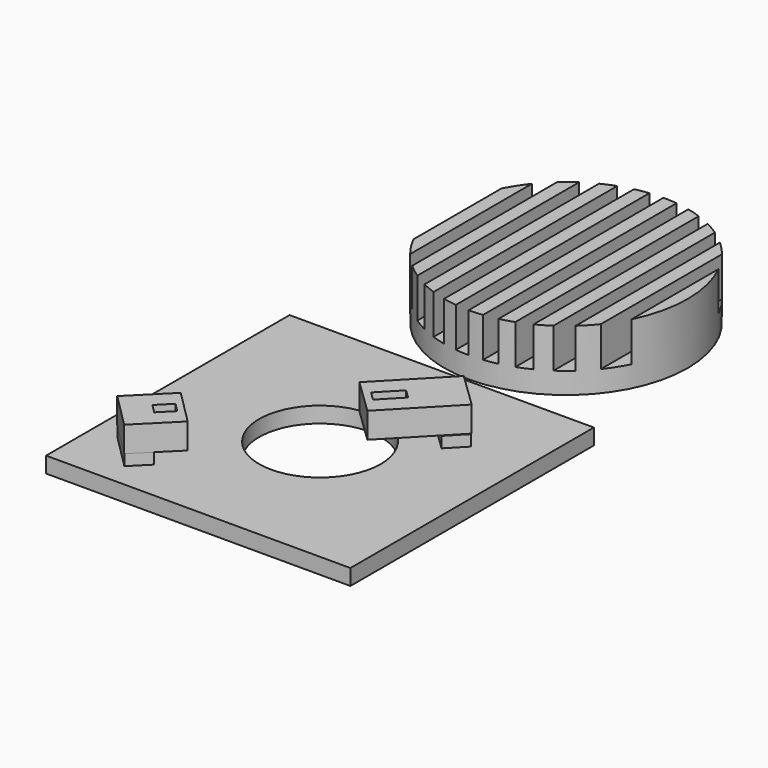
from build123d import *

# Parameters (mm, degrees)
SKETCH002_R                               = 0.7
EXTRUDE001_DEPTH                          = 4
SKETCH001_W                               = 2.23349
SKETCH001_H                               = 39.923653
SKETCH001_W_2                             = 2.233494
SKETCH001_H_2                             = 40.016715
SKETCH001_W_3                             = 2.204327
SKETCH001_H_3                             = 40.844541
SKETCH001_W_4                             = 2.233492
SKETCH001_H_4                             = 40.109777
SKETCH001_W_5                             = 2.233491
EXTRUDE_DEPTH                             = 6.5
CYLINDER001_R                             = 20
CYLINDER001_DEPTH                         = 10
CUT001_PLACEMENT_ANGLE                    = 180
SKETCH005_AS_DRAWN_W                      = 2.018315
SKETCH005_AS_DRAWN_H                      = 4.540272
EXTRUDE002_DEPTH                          = 4.5
EXTRUDE002_ONTO_SKETCH005_PLACEMENT_ANGLE = 136
BOX004_W                                  = 8
BOX004_H                                  = 13.5
BOX004_DEPTH                              = 4.2
BOX004_PLACEMENT_ANGLE                    = 136
BOX002_W                                  = 8
BOX002_H                                  = 3.8
BOX002_DEPTH                              = 1.8
BOX002_PLACEMENT_ANGLE                    = 136
SKETCH006_AS_DRAWN_W                      = 2.0548
SKETCH006_AS_DRAWN_H                      = 2.98173
EXTRUDE003_DEPTH                          = 4.5
EXTRUDE003_ONTO_SKETCH006_PLACEMENT_ANGLE = 135
BOX003_W                                  = 8
BOX003_H                                  = 8.2
BOX003_DEPTH                              = 4.2
BOX003_PLACEMENT_ANGLE                    = 135
BOX001_W                                  = 8
BOX001_H                                  = 3.8
BOX001_DEPTH                              = 1.8
BOX001_PLACEMENT_ANGLE                    = 135
CYLINDER_R                                = 10
CYLINDER_DEPTH                            = 2.6
BOX_W                                     = 50
BOX_H                                     = 50
BOX_DEPTH                                 = 2.6


with BuildPart() as extrude001:
    # Sketch002 → Extrude001 (new body)
    with BuildSketch(Plane.XY):
        with Locations((25.84182, 74.524612)):
            Circle(SKETCH002_R)
    extrude(amount=EXTRUDE001_DEPTH)


with BuildPart() as extrude_body:
    # Sketch001 (on Cylinder) → Extrude (new body)
    with BuildSketch(Plane(origin=(25.881318, -24.43368, 1.577772), x_dir=(1, 0, 0), z_dir=(0, 0, 1))):
        with Locations((3.379402, 0.007826)):
            Rectangle(SKETCH001_W, SKETCH001_H)
        with Locations((7.846387, 0.007826)):
            Rectangle(SKETCH001_W_2, SKETCH001_H)
        with Locations((12.313369, 0.054358)):
            Rectangle(SKETCH001_W, SKETCH001_H_2)
        with Locations((16.780351, 0.054358)):
            Rectangle(SKETCH001_W_2, SKETCH001_H_2)
        with Locations((-1.102163, -0.266493)):
            Rectangle(SKETCH001_W_3, SKETCH001_H_3)
        with Locations((-5.554563, 0.100888)):
            Rectangle(SKETCH001_W_4, SKETCH001_H_4)
        with Locations((-10.021547, 0.054358)):
            Rectangle(SKETCH001_W_4, SKETCH001_H_2)
        with Locations((-14.48853, 0.054358)):
            Rectangle(SKETCH001_W_4, SKETCH001_H_2)
        with Locations((-18.955512, 0.100888)):
            Rectangle(SKETCH001_W_5, SKETCH001_H_4)
    extrude(amount=EXTRUDE_DEPTH)


with BuildPart() as cut002:
    # Cylinder001 → Cylinder001 (new body)
    with BuildSketch(Plane(origin=(25.881318, -24.43368, 1.577772), x_dir=(1, 0, 0), z_dir=(0, 0, 1))):
        Circle(CYLINDER001_R)
    extrude(amount=CYLINDER001_DEPTH)

    # Cut001: cut Extrude body
    add(extrude_body.part, mode=Mode.SUBTRACT)


with BuildPart() as cut002_1:
    # Cut001 placement: moved
    add(cut002.part.moved(Location((0, 50, 12))).rotate(Axis((0, 50, 12), (1, 0, 0)), CUT001_PLACEMENT_ANGLE))

    # Cut002: cut Extrude001
    add(extrude001.part, mode=Mode.SUBTRACT)


with BuildPart() as cut002_2:
    # Cut002 placement: moved
    add(cut002_1.part.moved(Location((0, 0, -0.5))))


with BuildPart() as extrude002:
    # Sketch005 as drawn → Extrude002 (new)
    with BuildSketch(Plane.XY):
        with Locations((3.98714, 10.110961)):
            Rectangle(SKETCH005_AS_DRAWN_W, SKETCH005_AS_DRAWN_H)
    extrude(amount=EXTRUDE002_DEPTH)


with BuildPart() as extrude002_1:
    # Extrude002 onto Sketch005 placement: moved
    add(extrude002.part.moved(Location((47.02, 42.01, 12.52))).rotate(Axis((47.02, 42.01, 12.52), (0, 0, 1)), EXTRUDE002_ONTO_SKETCH005_PLACEMENT_ANGLE))


with BuildPart() as extrude002_2:
    # Extrude002 placement: moved
    add(extrude002_1.part.moved(Location((0, 0, -4.5))))


with BuildPart() as cut003:
    # Box004 → Box004 (new body)
    with BuildSketch(Plane.XY):
        with Locations((4, 6.75)):
            Rectangle(BOX004_W, BOX004_H)
    extrude(amount=BOX004_DEPTH)


with BuildPart() as cut003_1:
    # Box004 placement: moved
    add(cut003.part.moved(Location((47.02, 42.01, 8.32))).rotate(Axis((47.02, 42.01, 8.32), (0, 0, 1)), BOX004_PLACEMENT_ANGLE))

    # Cut003: cut Extrude002
    add(extrude002_2.part, mode=Mode.SUBTRACT)


with BuildPart() as cut003_2:
    # Cut003 placement: moved
    add(cut003_1.part.moved(Location((-5.975619, -5.901068, -3.867182))))


with BuildPart() as fusion:
    # Box002 → Box002 (new body)
    with BuildSketch(Plane.XY):
        with Locations((4, 1.9)):
            Rectangle(BOX002_W, BOX002_H)
    extrude(amount=BOX002_DEPTH)


with BuildPart() as fusion_1:
    # Box002 placement: moved
    add(fusion.part.moved(Location((41, 36, 2.6))).rotate(Axis((41, 36, 2.6), (0, 0, 1)), BOX002_PLACEMENT_ANGLE))

    # Fusion: union Cut003
    add(cut003_2.part)


with BuildPart() as extrude003:
    # Sketch006 as drawn → Extrude003 (new)
    with BuildSketch(Plane.XY):
        with Locations((4.015499, 2.494238)):
            Rectangle(SKETCH006_AS_DRAWN_W, SKETCH006_AS_DRAWN_H)
    extrude(amount=EXTRUDE003_DEPTH)


with BuildPart() as extrude003_1:
    # Extrude003 onto Sketch006 placement: moved
    add(extrude003.part.moved(Location((15.55, 9.66, 12.99))).rotate(Axis((15.55, 9.66, 12.99), (0, 0, 1)), EXTRUDE003_ONTO_SKETCH006_PLACEMENT_ANGLE))


with BuildPart() as extrude003_2:
    # Extrude003 placement: moved
    add(extrude003_1.part.moved(Location((0, 0, -4.5))))


with BuildPart() as cut004:
    # Box003 → Box003 (new body)
    with BuildSketch(Plane.XY):
        with Locations((4, 4.1)):
            Rectangle(BOX003_W, BOX003_H)
    extrude(amount=BOX003_DEPTH)


with BuildPart() as cut004_1:
    # Box003 placement: moved
    add(cut004.part.moved(Location((15.55, 9.66, 8.79))).rotate(Axis((15.55, 9.66, 8.79), (0, 0, 1)), BOX003_PLACEMENT_ANGLE))

    # Cut004: cut Extrude003
    add(extrude003_2.part, mode=Mode.SUBTRACT)


with BuildPart() as cut004_2:
    # Cut004 placement: moved
    add(cut004_1.part.moved(Location((-0.080851, 0.078243, -4.376037))))


with BuildPart() as fusion001:
    # Box001 → Box001 (new body)
    with BuildSketch(Plane.XY):
        with Locations((4, 1.9)):
            Rectangle(BOX001_W, BOX001_H)
    extrude(amount=BOX001_DEPTH)


with BuildPart() as fusion001_1:
    # Box001 placement: moved
    add(fusion001.part.moved(Location((12.36, 6.67, 2.6))).rotate(Axis((12.36, 6.67, 2.6), (0, 0, 1)), BOX001_PLACEMENT_ANGLE))

    # Fusion001: union Cut004
    add(cut004_2.part)


with BuildPart() as cylinder:
    # Cylinder → Cylinder (new body)
    with BuildSketch(Plane(origin=(25, 25, 0), x_dir=(1, 0, 0), z_dir=(0, 0, 1))):
        Circle(CYLINDER_R)
    extrude(amount=CYLINDER_DEPTH)


with BuildPart() as fusion002:
    # Box → Box (new body)
    with BuildSketch(Plane.XY):
        with Locations((25, 25)):
            Rectangle(BOX_W, BOX_H)
    extrude(amount=BOX_DEPTH)

    # Cut: cut Cylinder
    add(cylinder.part, mode=Mode.SUBTRACT)

    # Fusion002: union Fusion, Fusion001
    add(fusion_1.part)
    add(fusion001_1.part)


solid = Compound([cut002_2.part, fusion002.part])
